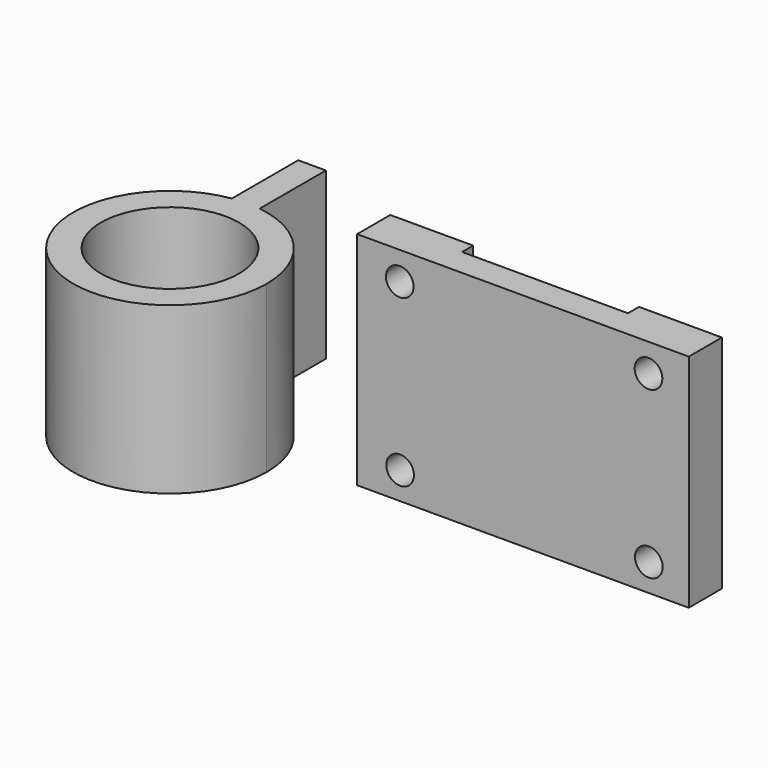
from build123d import *

# Parameters (mm, degrees)
F0_W      = 120
F0_H      = 80
F0_R      = 5
F1_DEPTH  = 15
F3_W      = 60
F3_H      = 5
F4_DEPTH  = 120
F5_W      = 10
F5_H      = 70.017156493
F6_DEPTH  = 40
F7_W      = 10.0020468235
F7_H      = 5.0063221715
F8_DEPTH  = 90
F10_R     = 25
F11_DEPTH = 60


with BuildPart() as f1:
    # F0 (on Front) → F1 (new body)
    with BuildSketch(Plane.XZ):
        with Locations((60, 40)):
            Rectangle(F0_W, F0_H)
        with Locations((15.5560296093, 9.8785167499)):
            Circle(F0_R, mode=Mode.SUBTRACT)
        with Locations((105.5560296093, 9.8785167499)):
            Circle(F0_R, mode=Mode.SUBTRACT)
        with Locations((15.4366883606, 69.8783980637)):
            Circle(F0_R, mode=Mode.SUBTRACT)
        with Locations((105.4366883606, 69.8783980637)):
            Circle(F0_R, mode=Mode.SUBTRACT)
    extrude(amount=F1_DEPTH)

    # F3 (on Top) → F4 (cut)
    with BuildSketch(Plane.XY):
        with Locations((60, -2.5)):
            Rectangle(F3_W, F3_H)
    extrude(amount=F4_DEPTH, mode=Mode.SUBTRACT)

    # F7 (on Top) → F8 (cut)
    with BuildSketch(Plane.XY):
        with Locations((84.9899873137, -2.5031610858)):
            Rectangle(F7_W, F7_H)
    extrude(amount=-F8_DEPTH, mode=Mode.SUBTRACT)


with BuildPart() as f1b:
    # F0 (on Front) → F1, piece 2 (new body)
    with BuildSketch(Plane.XZ):
        with Locations((195.5560296093, 9.8785167499)):
            Circle(F0_R)
    extrude(amount=F1_DEPTH)


with BuildPart() as f6:
    # F5 (on Front) → F6 (new body)
    with BuildSketch(Plane.XZ):
        with Locations((85, 39.9975791806)):
            Rectangle(F5_W, F5_H)
    extrude(amount=F6_DEPTH)


with BuildPart() as f11:
    # F10 (on Top) → F11 (new body)
    with BuildSketch(Plane.XY):
        with BuildLine():
            Line((-55.2309811049, 9.9091004567), (-65.2309811049, 9.9091004567))
            ThreePointArc((-65.2309811049, 9.9091004567), (-82.7720530048, -51.238329576), (-24.9620901048, -24.6920380741))
            ThreePointArc((-24.9620901048, -24.6920380741), (-33.5936542866, -1.6767042182), (-55.2309811049, 9.9867249896))
            Line((-55.2309811049, 9.9867249896), (-55.2309811049, 9.9091004567))
        make_face()
        with Locations((-59.9620901048, -24.6920380741)):
            Circle(F10_R, mode=Mode.SUBTRACT)
        with BuildLine():
            Line((-65.2309811049, 39.9091004567), (-65.2309811049, 9.9091004567))
            ThreePointArc((-65.2309811049, 9.9091004567), (-60.2337677851, 10.3069074991), (-55.2309811049, 9.9867249896))
            Line((-55.2309811049, 9.9867249896), (-55.2309811049, 39.9091004567))
            Line((-55.2309811049, 39.9091004567), (-65.2309811049, 39.9091004567))
        make_face()
        with BuildLine():
            ThreePointArc((-55.2309811049, 9.9867249896), (-60.2337677851, 10.3069074991), (-65.2309811049, 9.9091004567))
            Line((-65.2309811049, 9.9091004567), (-55.2309811049, 9.9091004567))
            Line((-55.2309811049, 9.9091004567), (-55.2309811049, 9.9867249896))
        make_face()
    extrude(amount=F11_DEPTH)


solid = Compound([f1.part, f11.part])
